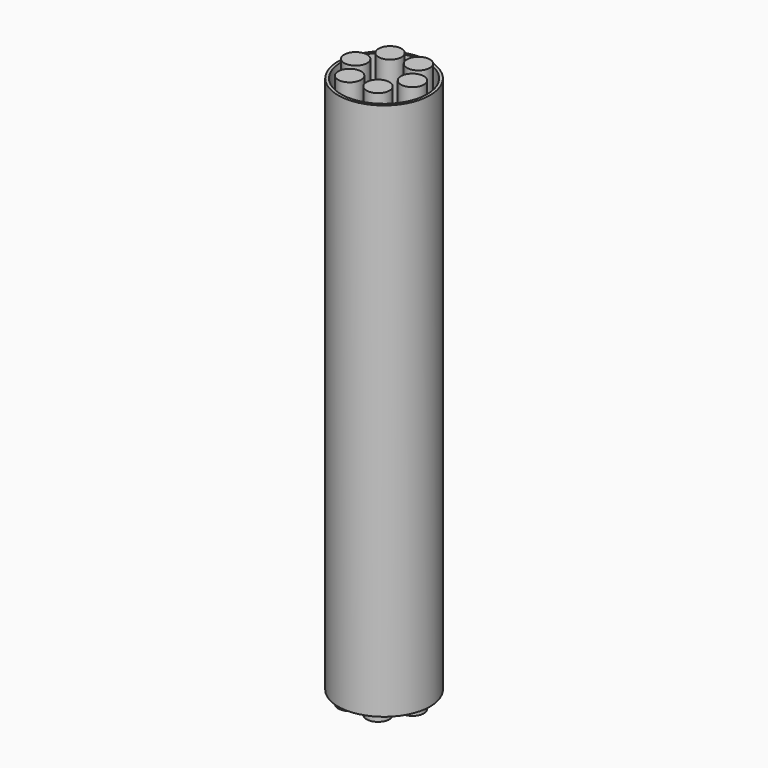
from build123d import *

# Parameters (mm, degrees)
F0_R     = 50.8
F0_R_2   = 47.6
F1_DEPTH = 595
F3_R     = 12.7
F4_DEPTH = 306


with BuildPart() as f1:
    # F0 (on Top) → F1 (new body)
    with BuildSketch(Plane.XY):
        Circle(F0_R)
        Circle(F0_R_2, mode=Mode.SUBTRACT)
    extrude(amount=F1_DEPTH)


with BuildPart() as f4:
    # F3 (on offset) → F4 (new body, symmetric)
    with BuildSketch(Plane.XY.offset(297.5)):
        with Locations((-15.499148, 27.683448)):
            Circle(F3_R)
        with Locations((16.224995, 27.26438)):
            Circle(F3_R)
        with Locations((-31.724143, 0.419068)):
            Circle(F3_R)
        with Locations((31.724143, -0.419068)):
            Circle(F3_R)
        with Locations((15.499148, -27.683448)):
            Circle(F3_R)
        with Locations((-16.224995, -27.26438)):
            Circle(F3_R)
    extrude(amount=F4_DEPTH, both=True)


solid = Compound([f1.part, f4.part])
